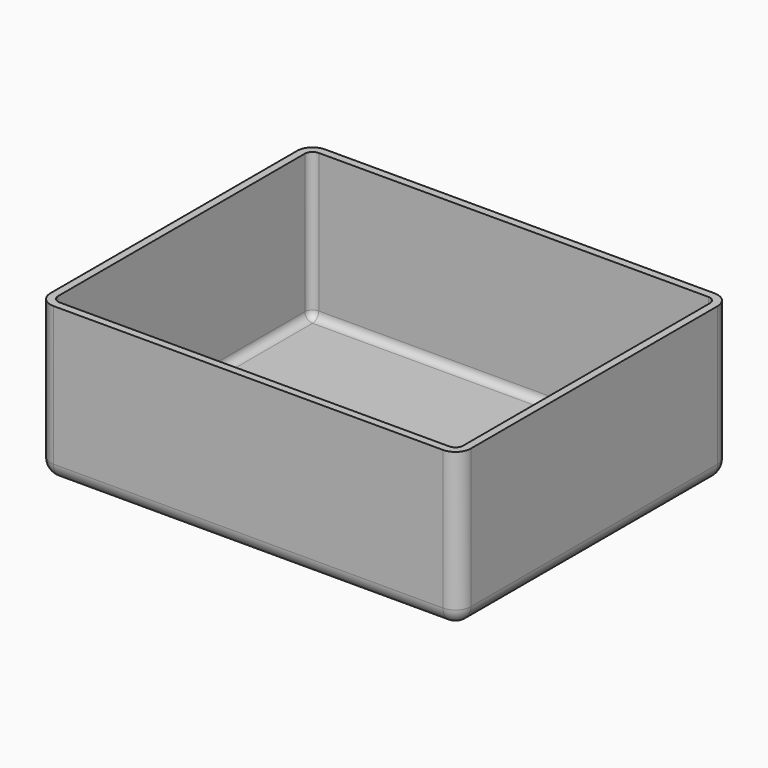
from build123d import *

# Parameters (mm, degrees)
F0_W     = 544
F0_H     = 439
F1_DEPTH = 200
F2_R     = 20
F3_R     = 20
F4_T     = -10


with BuildPart() as f1:
    # F0 (on Top) → F1 (new body)
    with BuildSketch(Plane.XY):
        Rectangle(F0_W, F0_H)
    extrude(amount=F1_DEPTH)

    # F2
    f2_edges = [f1.edges().sort_by_distance(p)[0] for p in [
        (-272, -219.5, 100),
        (272, -219.5, 100),
        (272, 219.5, 100),
        (-272, 219.5, 100),
    ]]
    fillet(f2_edges, radius=F2_R)

    # F3
    f3_edges = [f1.edges().sort_by_distance(p)[0] for p in [
        (0, 219.5, 0),
    ]]
    fillet(f3_edges, radius=F3_R)

    # F4
    f4_openings = [f1.faces().sort_by_distance(p)[0] for p in [
        (0, 0, 200),
    ]]
    offset(amount=F4_T, openings=f4_openings)


solid = f1.part
